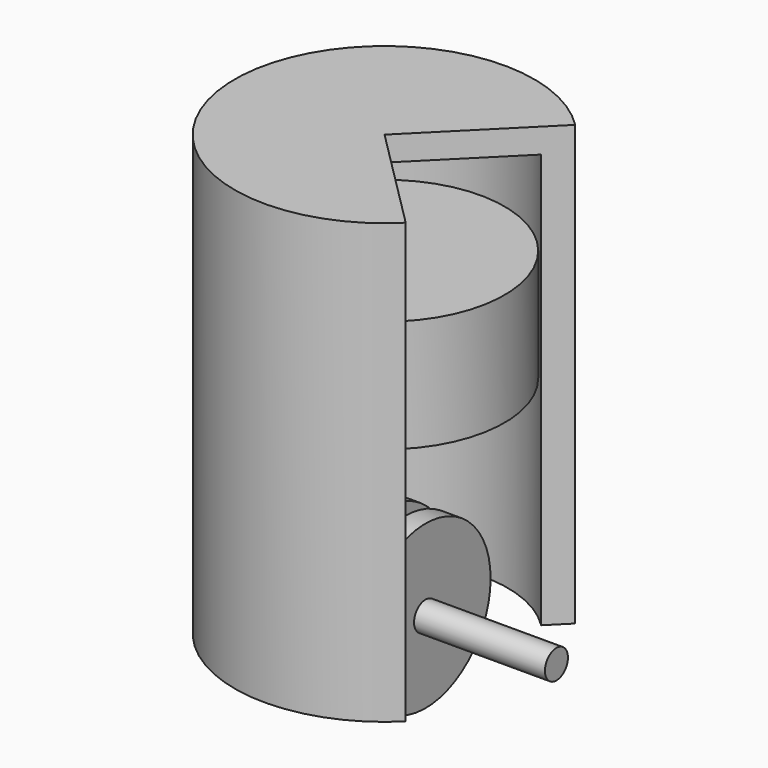
from build123d import *

# Parameters (mm, degrees)
F1_ANGLE_BACK = 135
F1_ANGLE      = 270
F2_R          = 3.5
F3_DEPTH      = 36.5227397509
F4_R          = 3.5
F5_DEPTH      = 36.9
F6_R          = 19.8174846099
F7_DEPTH      = 5
F8_R          = 3.5
F9_DEPTH      = 2.5
F10_W         = 29.2587447912
F10_H         = 27.3991972208
F12_T         = -2.5
F13_R         = 3.5
F14_DEPTH     = 28.8
F15_R         = 3.5
F16_DEPTH     = 5


with BuildPart() as f1:
    # F0 (on Front) → F1 (revolve)
    with BuildSketch(Plane.XZ, mode=Mode.PRIVATE) as f1_sk:
        Polygon((-36.5217397509, -7), (-30, -7), (-30, 94), (0, 94), (0, 100), (-36.5217397509, 100), align=None)
    revolve(f1_sk.sketch.rotate(Axis((0, 0, 97), (0, 0, 1)), -F1_ANGLE_BACK), axis=Axis((0, 0, 97), (0, 0, 1)), revolution_arc=F1_ANGLE)

    # F2 (on Right) → F3 (cut, through all)
    with BuildSketch(Plane.YZ):
        Circle(F2_R)
    extrude(amount=-F3_DEPTH, mode=Mode.SUBTRACT)


with BuildPart() as f5:
    # F4 (on Right) → F5 (new body)
    with BuildSketch(Plane.YZ):
        Circle(F4_R)
    extrude(amount=-F5_DEPTH)

    # F6 (on face) → F7 (join)
    with BuildSketch(Plane.YZ):
        Circle(F6_R)
    extrude(amount=-F7_DEPTH)

    # F8 (on face) → F9 (join)
    with BuildSketch(Plane.YZ):
        with Locations((-14.3960574642, 4.6712458134)):
            Circle(F8_R)
    extrude(amount=F9_DEPTH)

    # F17: F5 across face


with BuildPart() as f11:
    # F10 (on Front) → F11 (revolve)
    with BuildSketch(Plane.XZ):
        with Locations((-14.6293723956, 61.3911896944)):
            Rectangle(F10_W, F10_H)
    revolve(axis=Axis((0, 0, 61.3911896944), (0, 0, -1)))

    # F12
    f12_openings = [f11.faces().sort_by_distance(p)[0] for p in [
        (0, 0, 47.691591),
    ]]
    offset(amount=F12_T, openings=f12_openings)

    # F13 (on Right) → F14 (join, symmetric)
    with BuildSketch(Plane.YZ):
        with Locations((0, 52.5243282318)):
            Circle(F13_R)
    extrude(amount=F14_DEPTH, both=True)


with BuildPart() as f16:
    # F15 (on Right) → F16 (new body)
    with BuildSketch(Plane.YZ):
        with BuildLine():
            ThreePointArc((4.7880248113, 51.0839052363), (4.9467223521, 51.7963598454), (5, 52.5243282318))
            ThreePointArc((5, 52.5243282318), (0.7279683865, 57.4710505839), (-4.7880248113, 53.9647512274))
            ThreePointArc((-4.7880248113, 53.9647512274), (-1.4404229956, 47.7363034205), (4.7880248113, 51.0839052363))
        make_face()
        with Locations((0, 52.5243282318)):
            Circle(F15_R, mode=Mode.SUBTRACT)
        with BuildLine():
            ThreePointArc((4.7880248113, 51.0839052363), (-1.4404229956, 47.7363034205), (-4.7880248113, 53.9647512274))
            Line((-4.7880248113, 53.9647512274), (-19.1840822755, 6.1116688089))
            ThreePointArc((-19.1840822755, 6.1116688089), (-13.6680890777, 9.6179681654), (-9.3960574642, 4.6712458134))
            ThreePointArc((-9.3960574642, 4.6712458134), (-9.4493351121, 3.9432774269), (-9.6080326529, 3.2308228178))
            Line((-9.6080326529, 3.2308228178), (4.7880248113, 51.0839052363))
        make_face()
        with BuildLine():
            ThreePointArc((-9.3960574642, 4.6712458134), (-13.6680890777, 9.6179681654), (-19.1840822755, 6.1116688089))
            ThreePointArc((-19.1840822755, 6.1116688089), (-15.8364804597, -0.116778998), (-9.6080326529, 3.2308228178))
            ThreePointArc((-9.6080326529, 3.2308228178), (-9.4493351121, 3.9432774269), (-9.3960574642, 4.6712458134))
        make_face()
        with Locations((-14.3960574642, 4.6712458134)):
            Circle(F15_R, mode=Mode.SUBTRACT)
    extrude(amount=F16_DEPTH)


with BuildPart() as f5_1:
    add(f5.part)
    add(f5.part.mirror(Plane(origin=(2.5, -14.3960574642, 4.6712458134), x_dir=(0, 1, 0), z_dir=(1, 0, 0))))


solid = Compound([f1.part, f11.part, f16.part, f5_1.part])
